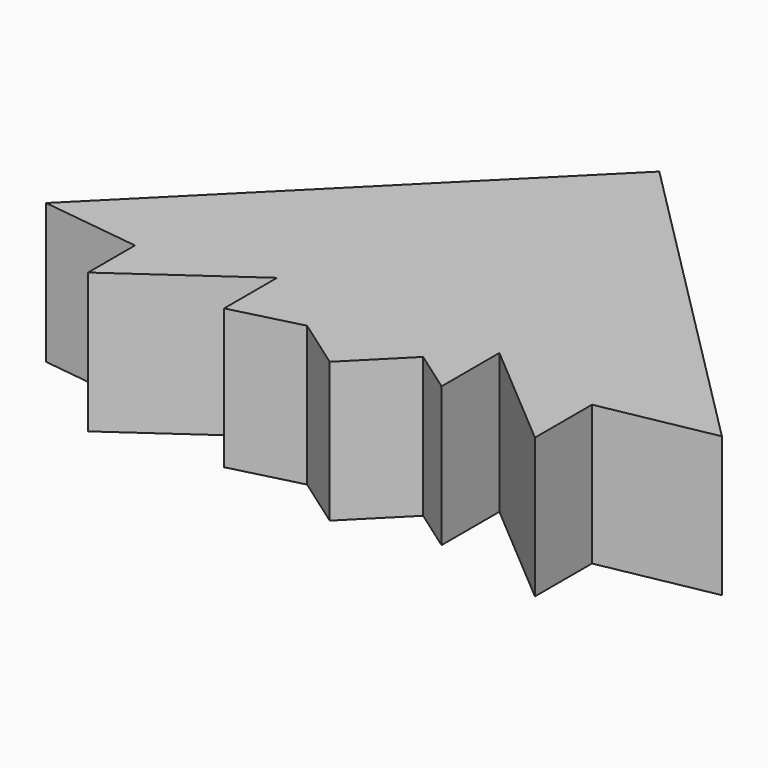
from build123d import *

# Parameters (mm, degrees)
F1_DEPTH = 25.4


with BuildPart() as f1:
    # F0 (on Top) → F1 (new body)
    with BuildSketch(Plane.XY):
        Polygon((0, 74.829496), (-22.448849, 52.380648), (0, 29.931799), (22.448682, 52.294139), align=None)
        Polygon((-22.448849, 52.380648), (-37.414748, 37.414748), (0, 12.951259), (0, 29.931799), align=None)
        Polygon((0, 29.931799), (0, 12.951259), (29.154506, 45.562424), (22.448682, 52.294139), align=None)
        Polygon((29.154506, 45.562424), (0, 12.951259), (0, 0), (9.407852, 9.444176), (17.089446, 17.155429), (37.270844, 37.414748), align=None)
        Polygon((-37.414748, 37.414748), (-43.890377, 30.93912), (-21.945188, 15.46956), (-9.42737, 6.645523), (0, 0), (0, 12.951259), align=None)
        Polygon((-21.945188, 15.46956), (-43.890377, 30.93912), (-43.890377, 10.648813), (-43.890377, 0), align=None)
        Polygon((-43.890377, 30.93912), (-61.878237, 12.951259), (-43.890377, 10.648813), align=None)
        Polygon((-9.42737, 6.645523), (-21.945188, 15.46956), (-21.945188, 3.453669), align=None)
        Polygon((17.089446, 17.155429), (9.407852, 9.444176), (17.089446, 4.029281), align=None)
        Polygon((37.270844, 12.951259), (37.270844, 37.414748), (17.089446, 17.155429), (37.270844, 0), align=None)
        Polygon((57.737835, 16.868733), (37.270844, 37.414748), (37.270844, 12.951259), align=None)
    extrude(amount=-F1_DEPTH)


solid = f1.part
